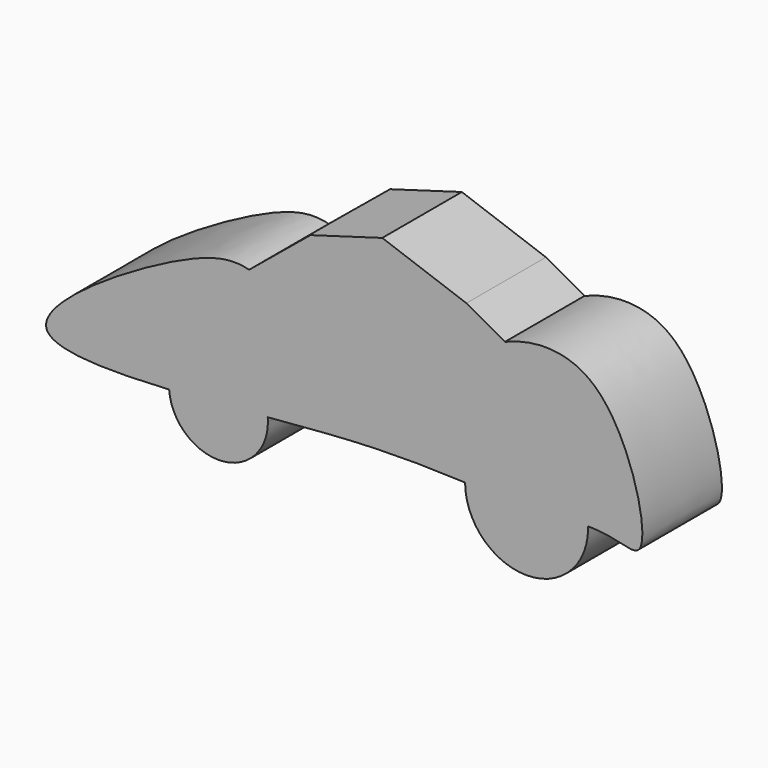
from build123d import *

# Parameters (mm, degrees)
F1_DEPTH = 25.4


with BuildPart() as f1:
    # F0 (on Front) → F1 (new body)
    with BuildSketch(Plane.XZ):
        with BuildLine():
            Line((-8.6731946755, 42.9527949154), (-24.3383222927, 30.0669412345))
            add(Edge.make_bspline(
                [(-24.3383222927, 30.0669412345), (-23.0718654676, 29.7350166515), (-15.1094692605, 26.5882488757), (2.485039585, 9.7718074119), (25.3038790792, 21.2101621684), (33.2612487533, 31.5505674903), (40.37705323, 34.8516540005), (40.9856548405, 35.1088173603)],
                knots=[0.1717480104, 0.1717480104, 0.1717480104, 0.1717480104, 0.1883148454, 0.2762767616, 0.3545129409, 0.4291718011, 0.435930476, 0.435930476, 0.435930476, 0.435930476], degree=3))
            Line((40.9856548405, 35.1088173603), (31.1368945986, 40.5962094665))
            Line((31.1368945986, 40.5962094665), (9.6563789994, 48.2818968594))
            Line((9.6563789994, 48.2818968594), (-8.6731946755, 42.9527949154))
        make_face()
        with BuildLine():
            ThreePointArc((-19.5857137795, -1.5286451453), (-33.1522016722, 9.9960189811), (-44.7636274981, -3.49628502))
            add(Edge.make_bspline(
                [(-19.5857137795, -1.5286451453), (-27.9763417286, -2.2521384598), (-36.7245412459, -3.0177792163), (-44.7636274981, -3.49628502)],
                knots=[0.884569908, 0.884569908, 0.884569908, 0.884569908, 0.9224512068, 0.9224512068, 0.9224512068, 0.9224512068], degree=3))
        make_face()
        with BuildLine():
            add(Edge.make_bspline(
                [(-19.5857137795, -1.5286451453), (-27.9763417286, -2.2521384598), (-36.7245412459, -3.0177792163), (-44.7636274981, -3.49628502)],
                knots=[0.884569908, 0.884569908, 0.884569908, 0.884569908, 0.9224512068, 0.9224512068, 0.9224512068, 0.9224512068], degree=3))
            ThreePointArc((-44.7636274981, -3.49628502), (-31.7165280277, -15.2127110064), (-19.5407610253, -2.5931967374))
            ThreePointArc((-19.5407610253, -2.5931967374), (-19.5520042191, -2.0604465984), (-19.5857137795, -1.5286451453))
        make_face()
        with BuildLine():
            ThreePointArc((62.2195018869, 0.1297362803), (62.2180401177, 0.3439942619), (62.2136550824, 0.5582123539))
            add(Edge.make_bspline(
                [(62.2136550824, 0.5582123539), (56.1039952959, 0.7354866845), (44.6938249497, -0.250725284), (34.6315513372, 0.0521268843), (30.8133880731, 0.1827009255)],
                knots=[0.680274905, 0.680274905, 0.680274905, 0.680274905, 0.7438953405, 0.7791297115, 0.7791297115, 0.7791297115, 0.7791297115], degree=3))
            ThreePointArc((30.8133880731, 0.1827009255), (46.4899179587, -15.5733429571), (62.2195018869, 0.1297362803))
        make_face()
        with BuildLine():
            add(Edge.make_bspline(
                [(62.2136550824, 0.5582123539), (56.1039952959, 0.7354866845), (44.6938249497, -0.250725284), (34.6315513372, 0.0521268843), (30.8133880731, 0.1827009255)],
                knots=[0.680274905, 0.680274905, 0.680274905, 0.680274905, 0.7438953405, 0.7791297115, 0.7791297115, 0.7791297115, 0.7791297115], degree=3))
            ThreePointArc((62.2136550824, 0.5582123539), (46.3286225372, 15.8317150841), (30.8133880731, 0.1827009255))
        make_face()
        with BuildLine():
            add(Edge.make_bspline(
                [(-76.0686248541, 0), (-78.0412827996, 6.1571760328), (-42.1797875874, 28.493098451), (-28.8833678396, 31.2581483235), (-24.3383222927, 30.0669412345)],
                knots=[0, 0, 0, 0, 0.1122931454, 0.1717480104, 0.1717480104, 0.1717480104, 0.1717480104], degree=3))
            add(Edge.make_bspline(
                [(-44.7636274981, -3.49628502), (-61.2208625603, -4.475859345), (-74.7063222614, -4.2520989979), (-76.0686248541, 0)],
                knots=[0.9224512068, 0.9224512068, 0.9224512068, 0.9224512068, 1, 1, 1, 1], degree=3))
            ThreePointArc((-44.7636274981, -3.49628502), (-33.1522016722, 9.9960189811), (-19.5857137795, -1.5286451453))
            add(Edge.make_bspline(
                [(30.8133880731, 0.1827009255), (22.8026692987, 0.4566525225), (9.921859959, 0.989481854), (-12.6048692675, -0.9267123263), (-19.5857137795, -1.5286451453)],
                knots=[0.7791297115, 0.7791297115, 0.7791297115, 0.7791297115, 0.8530533805, 0.884569908, 0.884569908, 0.884569908, 0.884569908], degree=3))
            ThreePointArc((30.8133880731, 0.1827009255), (46.3286225372, 15.8317150841), (62.2136550824, 0.5582123539))
            add(Edge.make_bspline(
                [(40.9856548405, 35.1088173603), (47.9787474019, 38.0637342515), (69.2089895431, 39.7151706763), (80.067385962, -4.847230922), (70.4602746753, -0.0040889696), (64.3874619474, 0.4951384398), (62.2136550824, 0.5582123539)],
                knots=[0.435930476, 0.435930476, 0.435930476, 0.435930476, 0.513590538, 0.61214352, 0.6576388592, 0.680274905, 0.680274905, 0.680274905, 0.680274905], degree=3))
            add(Edge.make_bspline(
                [(-24.3383222927, 30.0669412345), (-23.0718654676, 29.7350166515), (-15.1094692605, 26.5882488757), (2.485039585, 9.7718074119), (25.3038790792, 21.2101621684), (33.2612487533, 31.5505674903), (40.37705323, 34.8516540005), (40.9856548405, 35.1088173603)],
                knots=[0.1717480104, 0.1717480104, 0.1717480104, 0.1717480104, 0.1883148454, 0.2762767616, 0.3545129409, 0.4291718011, 0.435930476, 0.435930476, 0.435930476, 0.435930476], degree=3))
        make_face()
    extrude(amount=F1_DEPTH)


solid = f1.part
